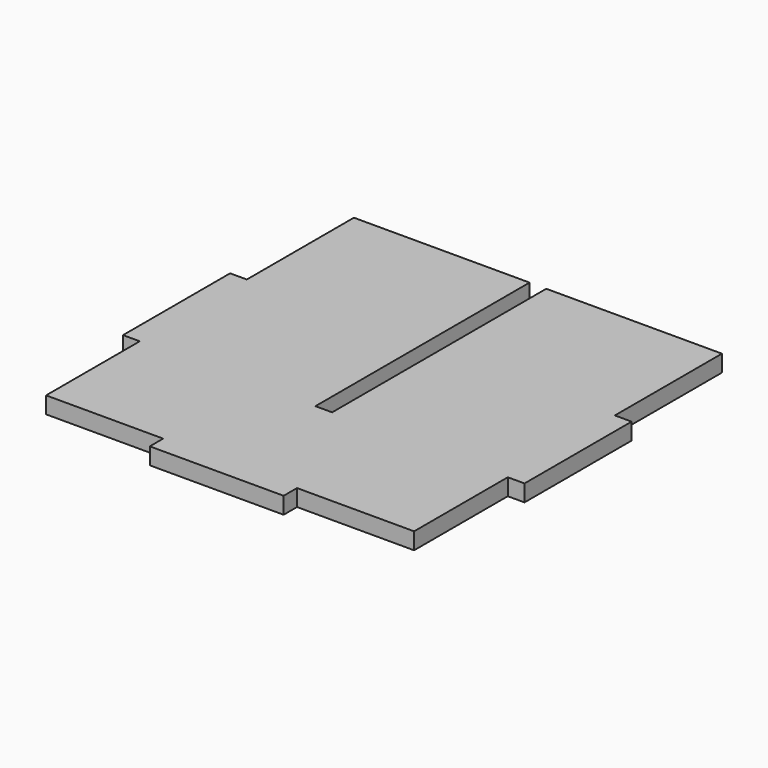
from build123d import *

# Parameters (mm, degrees)
F0_W     = 3.175
F0_H     = 25.4
F0_W_2   = 25.4
F0_H_2   = 3.175
F1_DEPTH = 3.175


with BuildPart() as f1:
    # F0 (on Top) → F1 (new body)
    with BuildSketch(Plane.XY):
        Polygon((34.925, -47.625), (34.925, -25.4), (1.5875, -25.4), (-1.5875, -25.4), (-34.925, -25.4), (-34.925, -47.625), (-12.7, -47.625), (12.7, -47.625), align=None)
        Polygon((1.5875, -25.4), (34.925, -25.4), (34.925, 0), (34.925, 25.4), (1.5875, 25.4), align=None)
        with Locations((36.5125, -12.7)):
            Rectangle(F0_W, F0_H)
        Polygon((-34.925, -25.4), (-1.5875, -25.4), (-1.5875, 25.4), (-34.925, 25.4), (-34.925, 0), align=None)
        with Locations((0, -49.2125)):
            Rectangle(F0_W_2, F0_H_2)
        with Locations((-36.5125, -12.7)):
            Rectangle(F0_W, F0_H)
    extrude(amount=F1_DEPTH)


solid = f1.part
